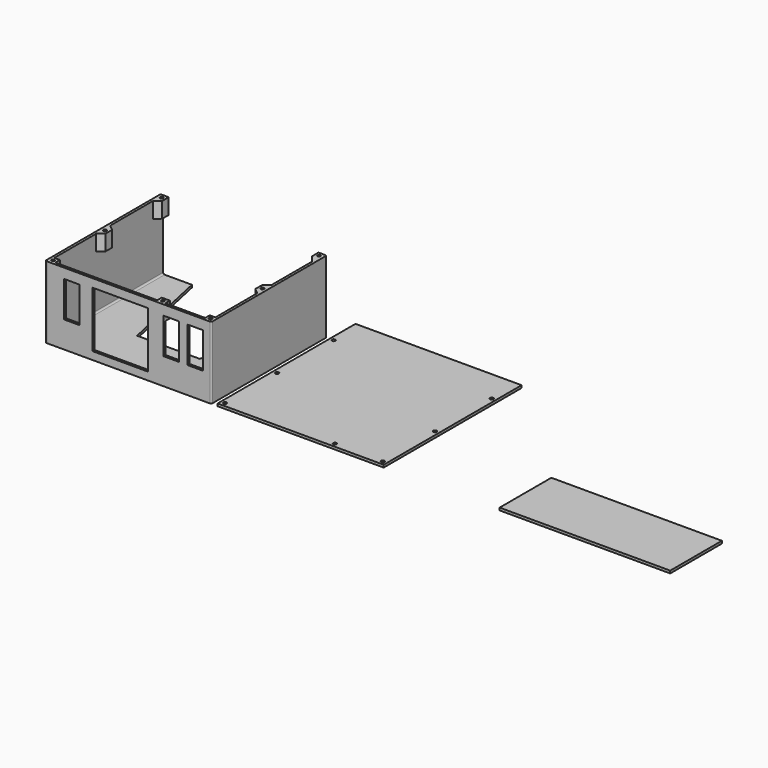
from build123d import *

# Parameters (mm, degrees)
F0_W      = 134.62
F0_H      = 116.84
F1_DEPTH  = 58.42
F2_T      = -2.032
F3_DEPTH  = 2.032
F4_W      = 45.339
F4_H      = 45.339
F4_W_2    = 12.7
F4_H_2    = 28.956
F5_DEPTH  = 2.032
F6_W      = 4.572
F6_H      = 4.572
F6_R      = 1.27
F6_W_2    = 6.604
F7_DEPTH  = 12.7
F8_W      = 134.62
F8_H      = 139.7
F8_R      = 1.397
F9_DEPTH  = 2.032
F8_W_2    = 138.2675617933
F8_H_2    = 52.3949367452
F10_R     = 1.27
F11_R     = 1.27
F13_DEPTH = 2.032


with BuildPart() as f1:
    # F0 (on Top) → F1 (new body)
    with BuildSketch(Plane.XY):
        with Locations((-69.85, -60.96)):
            Rectangle(F0_W, F0_H)
    extrude(amount=F1_DEPTH)

    # F2
    f2_openings = [f1.faces().sort_by_distance(p)[0] for p in [
        (-69.85, -60.96, 58.42),
    ]]
    offset(amount=F2_T, openings=f2_openings)

    # F3 (cut, through all): a face of the model
    f3_faces = [f1.faces().sort_by_distance(p)[0] for p in [
        (-69.85, -4.572, 30.226),
    ]]
    extrude(f3_faces, amount=-F3_DEPTH, mode=Mode.SUBTRACT)

    # F4 (on face) → F5 (cut, through all)
    with BuildSketch(Plane.XZ.offset(119.38)):
        with Locations((-76.3905, 29.0195)):
            Rectangle(F4_W, F4_H)
        with Locations((-35.052, 35.941)):
            Rectangle(F4_W_2, F4_H_2)
        with Locations((-15.621, 35.941)):
            Rectangle(F4_W_2, F4_H_2)
        with Locations((-115.57, 35.941)):
            Rectangle(F4_W_2, F4_H_2)
    extrude(amount=-F5_DEPTH, mode=Mode.SUBTRACT)

    # F6 (on face) → F7 (join)
    with BuildSketch(Plane.XY.offset(58.42)):
        with Locations((-6.858, -115.062)):
            Rectangle(F6_W, F6_H)
        with Locations((-6.096, -115.824)):
            Circle(F6_R, mode=Mode.SUBTRACT)
        with Locations((-132.842, -115.062)):
            Rectangle(F6_W, F6_H)
        with Locations((-133.604, -115.824)):
            Circle(F6_R, mode=Mode.SUBTRACT)
        Polygon((-9.144, -59.944), (-9.144, -66.548), (-4.572, -70.3843635137), (-4.572, -56.1076364863), align=None)
        with Locations((-6.096, -63.246)):
            Circle(F6_R, mode=Mode.SUBTRACT)
        Polygon((-135.128, -70.3843635137), (-130.556, -66.548), (-130.556, -59.944), (-135.128, -56.1076364863), align=None)
        with Locations((-133.604, -63.246)):
            Circle(F6_R, mode=Mode.SUBTRACT)
        Polygon((-4.572, -14.5926974254), (-4.572, -2.54), (-9.144, -2.54), (-9.144, -9.144), align=None)
        with Locations((-6.096, -5.842)):
            Circle(F6_R, mode=Mode.SUBTRACT)
        Polygon((-130.556, -2.54), (-135.128, -2.54), (-135.128, -12.9803635138), (-130.556, -9.144), align=None)
        with Locations((-133.604, -5.842)):
            Circle(F6_R, mode=Mode.SUBTRACT)
        with Locations((-44.704, -115.062)):
            Rectangle(F6_W_2, F6_H)
        with Locations((-44.704, -115.824)):
            Circle(F6_R, mode=Mode.SUBTRACT)
    extrude(amount=-F7_DEPTH)

    # F10
    f10_edges = [f1.edges().sort_by_distance(p)[0] for p in [
        (-137.16, -119.38, 29.21),
        (-137.16, -2.54, 29.21),
        (-2.54, -119.38, 29.21),
        (-2.54, -2.54, 29.21),
    ]]
    fillet(f10_edges, radius=F10_R)

    # F11
    f11_edges = [f1.edges().sort_by_distance(p)[0] for p in [
        (-135.128, -59.944, 2.032),
        (-69.85, -117.348, 2.032),
        (-135.128, -117.348, 23.876),
        (-4.572, -117.348, 23.876),
        (-4.572, -59.944, 2.032),
    ]]
    fillet(f11_edges, radius=F11_R)

    # F12 (on face) → F13 (cut, through all)
    with BuildSketch(Plane.XY.offset(2.032)):
        Polygon((-27.94, -2.54), (-111.76, -2.54), (-95.25, -78.74), (-44.45, -78.74), align=None)
    extrude(amount=-F13_DEPTH, mode=Mode.SUBTRACT)


with BuildPart() as f9:
    # F8 (on Top) → F9 (new body)
    with BuildSketch(Plane.XY):
        with Locations((69.85, -49.53)):
            Rectangle(F8_W, F8_H)
        with Locations((5.842, -116.078)):
            Circle(F8_R, mode=Mode.SUBTRACT)
        with Locations((94.996, -116.078)):
            Circle(F8_R, mode=Mode.SUBTRACT)
        with Locations((133.858, -116.078)):
            Circle(F8_R, mode=Mode.SUBTRACT)
        with Locations((5.842, -63.246)):
            Circle(F8_R, mode=Mode.SUBTRACT)
        with Locations((133.858, -63.246)):
            Circle(F8_R, mode=Mode.SUBTRACT)
        with Locations((5.842, -5.842)):
            Circle(F8_R, mode=Mode.SUBTRACT)
        with Locations((133.858, -5.842)):
            Circle(F8_R, mode=Mode.SUBTRACT)
    extrude(amount=F9_DEPTH)


with BuildPart() as f9b:
    # F8 (on Top) → F9, piece 2 (new body)
    with BuildSketch(Plane.XY):
        with Locations((300.2735450864, -93.1825316274)):
            Rectangle(F8_W_2, F8_H_2)
    extrude(amount=F9_DEPTH)


solid = Compound([f1.part, f9.part, f9b.part])
